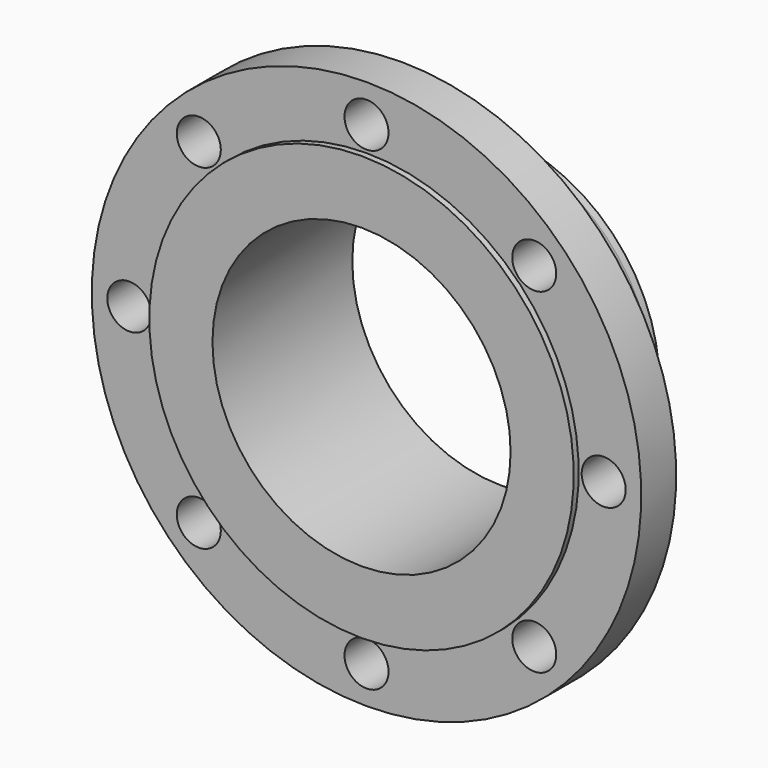
from build123d import *

# Parameters (mm, degrees)
F2_R     = 11.19886
F3_DEPTH = 85.726


with BuildPart() as f1:
    # F0 (on Right) → F1 (revolve)
    with BuildSketch(Plane.YZ):
        Polygon((0, 107.95), (0, 75.82916), (88.9, 75.82916), (84.116041, 84.19973), (80.306041, 84.19973), (28.575, 95.9993), (25.4, 95.9993), (25.4, 139.74953), (3.175, 139.74953), (3.175, 107.95), align=None)
    revolve(axis=Axis((0, -0.252383, 0), (0, 1, 0)))

    # F2 (on face) → F3 (cut, through all)
    with BuildSketch(Plane.XZ.offset(-3.175)):
        with Locations((-85.312433, 85.312433)):
            Circle(F2_R)
        with Locations((0, 120.65)):
            Circle(F2_R)
        with Locations((85.312433, 85.312433)):
            Circle(F2_R)
        with Locations((120.65, 0)):
            Circle(F2_R)
        with Locations((85.312433, -85.312433)):
            Circle(F2_R)
        with Locations((0, -120.65)):
            Circle(F2_R)
        with Locations((-85.312433, -85.312433)):
            Circle(F2_R)
        with Locations((-120.65, 0)):
            Circle(F2_R)
    extrude(amount=-F3_DEPTH, mode=Mode.SUBTRACT)


solid = f1.part
